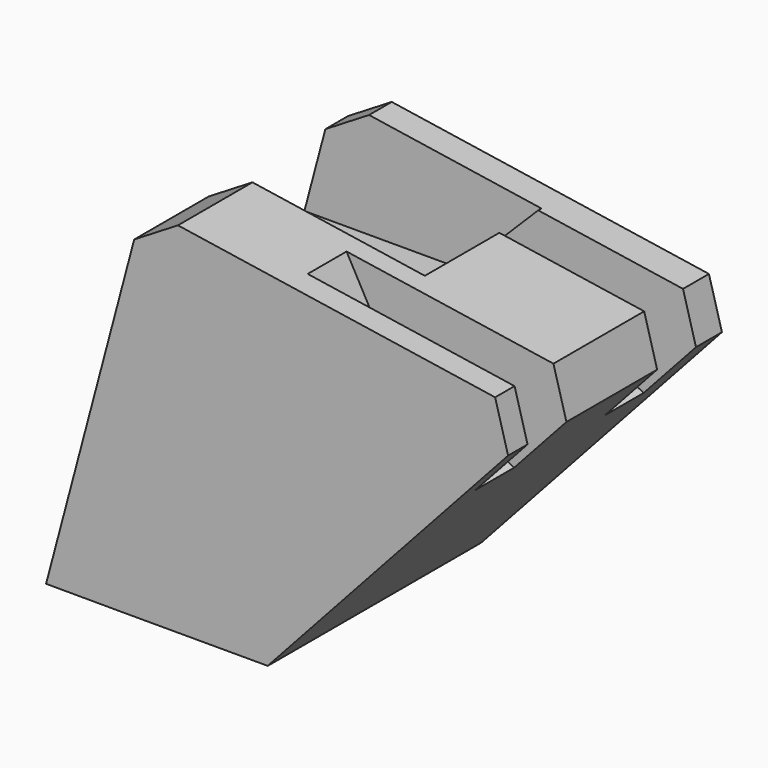
from build123d import *

# Parameters (mm, degrees)
PAD049_DEPTH = 6
PAD050_DEPTH = 6
PAD051_DEPTH = 18
PAD043_DEPTH = 20
PAD041_DEPTH = 33
PAD042_DEPTH = 20
PAD040_DEPTH = 33


with BuildPart() as pad049:
    # Sketch053 → Pad049 (new body)
    with BuildSketch(Plane.XZ.offset(4)):
        Polygon((-22.876627, -50.458862), (-2.795745, -40.418423), (3.522805, -28.90654), (-39.408733, -32.801537), align=None)
    extrude(amount=PAD049_DEPTH)


with BuildPart() as pad050:
    # Sketch054 → Pad050 (new body)
    with BuildSketch(Plane.XZ.offset(24)):
        Polygon((-22.876627, -50.458862), (-2.795745, -40.418423), (3.522805, -28.90654), (-39.408733, -32.801537), align=None)
    extrude(amount=PAD050_DEPTH)


with BuildPart() as pad051:
    # Sketch055 → Pad051 (new body)
    with BuildSketch(Plane.XZ.offset(3.5)):
        Polygon((26.854265, -42.508881), (4.226509, -42.508881), (-12.077076, -26.263317), (32.65625, -19.126871), align=None)
    extrude(amount=PAD051_DEPTH)


with BuildPart() as pad043:
    # Sketch047 → Pad043 (new body)
    with BuildSketch(Plane(origin=(10, -7, 0), x_dir=(1, 0, 0), z_dir=(0, -1, 0))):
        Polygon((12.921668, -76.043343), (12.921668, -72.681298), (10.907037, -71.064545), (12.949577, -67.987406), (17.894252, -67.987406), (19.953335, -71.012405), (17.993304, -72.648705), (17.981073, -76.043343), align=None)
    extrude(amount=PAD043_DEPTH)


with BuildPart() as pad041:
    # Sketch045 → Pad041 (new body)
    with BuildSketch(Plane.XZ):
        Polygon((31.922119, -73.764191), (34.715668, -84.347412), (31.00419, -84.347412), (29.994871, -83.010223), (29.004835, -82.997353), (29.97435, -84.356453), (27.001257, -84.356453), (25.99424, -83.013763), (24.977634, -83.013763), (26.003832, -84.375633), (23.007538, -84.375633), (22.019703, -83.023636), (20.974325, -83.023636), (22.000523, -84.366325), (19.017838, -84.366325), (17.99164, -83.004456), (16.984625, -83.004456), (18.00123, -84.366325), (15.032244, -84.366325), (14.013124, -83.020378), (12.982291, -83.020378), (14.00141, -84.379204), (12.681671, -84.379204), (4.650895, -73.764191), align=None)
    extrude(amount=PAD041_DEPTH)


with BuildPart() as fusion011:
    # Sketch046 → Pad042 (new body)
    with BuildSketch(Plane(origin=(-4, -7, 0), x_dir=(1, 0, 0), z_dir=(0, -1, 0))):
        Polygon((12.921668, -76.043343), (12.921668, -72.681298), (10.907037, -71.064545), (12.949577, -67.987406), (17.894252, -67.987406), (19.953335, -71.012405), (17.993304, -72.648705), (17.981073, -76.043343), align=None)
    extrude(amount=PAD042_DEPTH)

    # Fusion010: union Pad041
    add(pad041.part)

    # Fusion011: union Pad043
    add(pad043.part)


with BuildPart() as cut018:
    # Sketch043 → Pad040 (new body)
    with BuildSketch(Plane(origin=(-15, 0, -10), x_dir=(0.819152, 0, 0.573576), z_dir=(0, -1, 0))):
        Polygon((-26.184557, -19.824878), (-21.536683, -15.979609), (13.963177, -33.561758), (16.497322, -39.355457), (1.912507, -79.157962), (-20.506964, -63.527428), align=None)
    extrude(amount=PAD040_DEPTH)

    # Cut010: cut Fusion011
    add(fusion011.part, mode=Mode.SUBTRACT)

    # Cut016: cut Pad051
    add(pad051.part, mode=Mode.SUBTRACT)

    # Cut017: cut Pad050
    add(pad050.part, mode=Mode.SUBTRACT)

    # Cut018: cut Pad049
    add(pad049.part, mode=Mode.SUBTRACT)


with BuildPart() as part_mirroring019:
    # Part__Mirroring019: instance of Cut018
    add(cut018.part.mirror(Plane(origin=(0, 0, 0), x_dir=(0, -1, 0), z_dir=(1, 0, 0))))


with BuildPart() as part_mirroring019_1:
    # Part__Mirroring019 placement: moved
    add(part_mirroring019.part.moved(Location((76, 0, 0))))


solid = part_mirroring019_1.part
